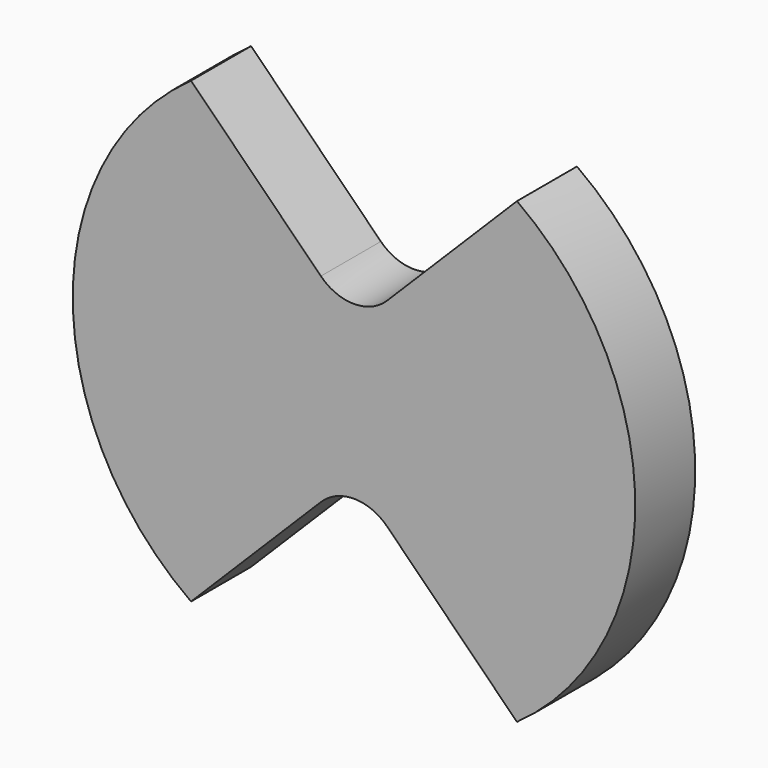
from build123d import *

# Parameters (mm, degrees)
F0_R     = 30
F1_DEPTH = 8
F4_DEPTH = 16.1


with BuildPart() as f1:
    # F0 (on Front) → F1 (new body)
    with BuildSketch(Plane.XZ):
        Circle(F0_R)
    extrude(amount=F1_DEPTH)

    # F2 (on Front) → F4 (cut)
    with BuildSketch(Plane.XZ):
        with BuildLine():
            ThreePointArc((-3.535534, 10.606602), (0, 9.142136), (3.535534, 10.606602))
            Line((3.535534, 10.606602), (23.822852, 30.89392))
            Line((23.822852, 30.89392), (-23.822852, 30.89392))
            Line((-23.822852, 30.89392), (-3.535534, 10.606602))
        make_face()
        with BuildLine():
            ThreePointArc((3.535534, -10.606602), (0, -9.142136), (-3.535534, -10.606602))
            Line((-3.535534, -10.606602), (-23.822852, -30.89392))
            Line((-23.822852, -30.89392), (23.822852, -30.89392))
            Line((23.822852, -30.89392), (3.535534, -10.606602))
        make_face()
    extrude(amount=F4_DEPTH, mode=Mode.SUBTRACT)


solid = f1.part
